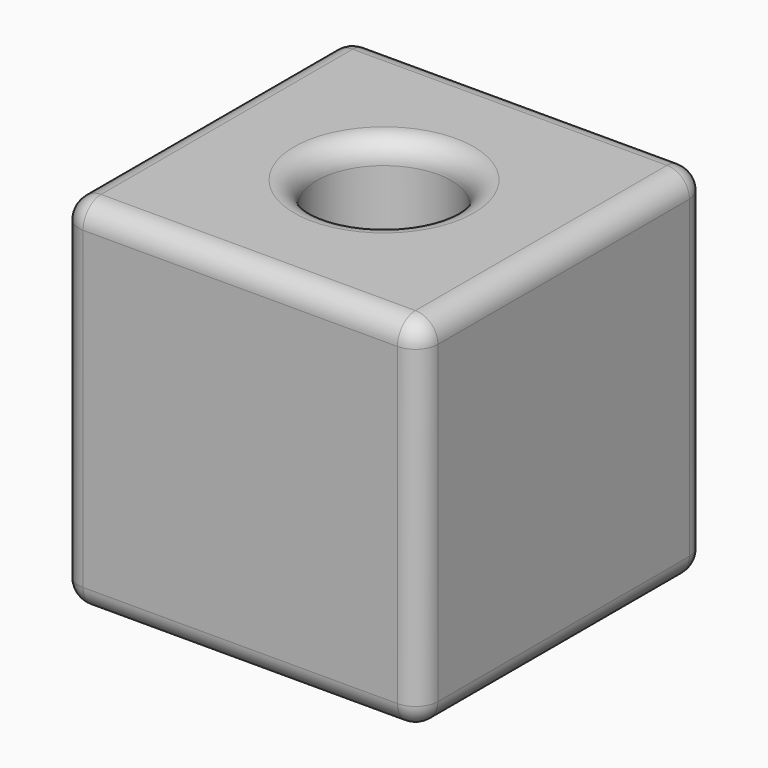
from build123d import *

# Parameters (mm, degrees)
F0_W     = 80
F0_H     = 80
F1_DEPTH = 40
F2_R     = 5
F3_R     = 15
F4_DEPTH = 80.001
F5_R     = 5


with BuildPart() as f1:
    # F0 (on Top) → F1 (new body, symmetric)
    with BuildSketch(Plane.XY):
        Rectangle(F0_W, F0_H)
    extrude(amount=F1_DEPTH, both=True)

    # F2
    f2_edges = [f1.edges().sort_by_distance(p)[0] for p in [
        (0, 40, 40),
        (-40, 0, 40),
        (0, -40, 40),
        (40, 0, 40),
        (-40, 40, 0),
        (-40, -40, 0),
        (0, 40, -40),
        (40, 0, -40),
        (0, -40, -40),
        (-40, 0, -40),
        (40, 40, 0),
        (40, -40, 0),
    ]]
    fillet(f2_edges, radius=F2_R)

    # F3 (on face) → F4 (cut, through all)
    with BuildSketch(Plane.XY.offset(40)):
        Circle(F3_R)
    extrude(amount=-F4_DEPTH, mode=Mode.SUBTRACT)

    # F5
    f5_edges = [f1.edges().sort_by_distance(p)[0] for p in [
        (-15, 0, 40),
        (-15, 0, -40),
    ]]
    fillet(f5_edges, radius=F5_R)


solid = f1.part
